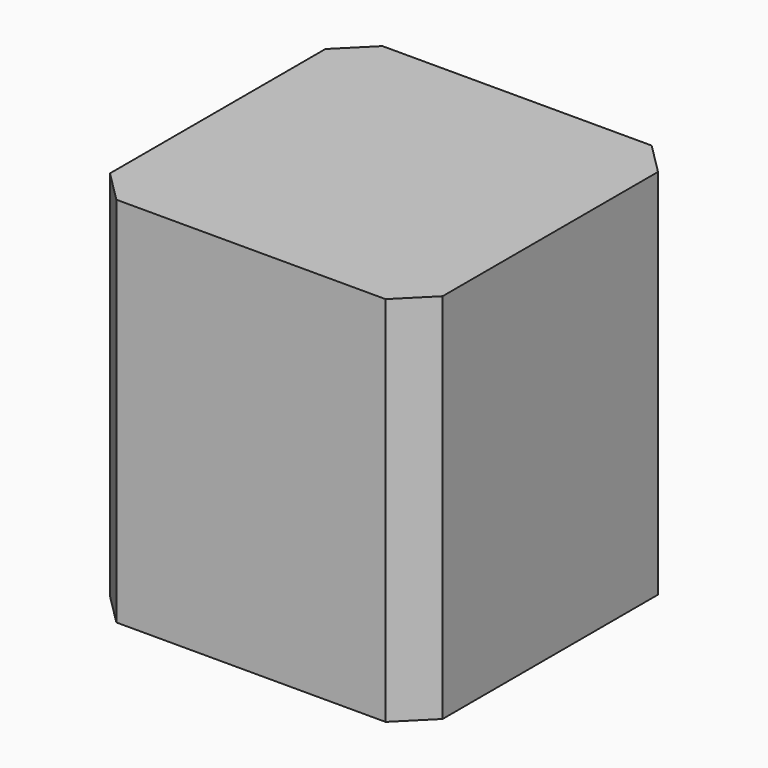
from build123d import *

# Parameters (mm, degrees)
BOX002_W     = 42
BOX002_H     = 42
BOX002_DEPTH = 47
CHAMFER_SIZE = 4


with BuildPart() as nema:
    # Box002 → Box002 (new body)
    with BuildSketch(Plane(origin=(85, 69, 20), x_dir=(1, 0, 0), z_dir=(0, 0, 1))):
        with Locations((21, 21)):
            Rectangle(BOX002_W, BOX002_H)
    extrude(amount=BOX002_DEPTH)

    # Chamfer
    chamfer_edges = [nema.edges().sort_by_distance(p)[0] for p in [
        (85, 69, 43.5),
        (85, 111, 43.5),
        (127, 69, 43.5),
        (127, 111, 43.5),
    ]]
    chamfer(chamfer_edges, length=CHAMFER_SIZE)


with BuildPart() as nema001:
    # Part__Mirroring003: instance of NEMA
    add(nema.part.mirror(Plane(origin=(0, 0, 0), x_dir=(0, -1, 0), z_dir=(1, 0, 0))))


solid = nema001.part
